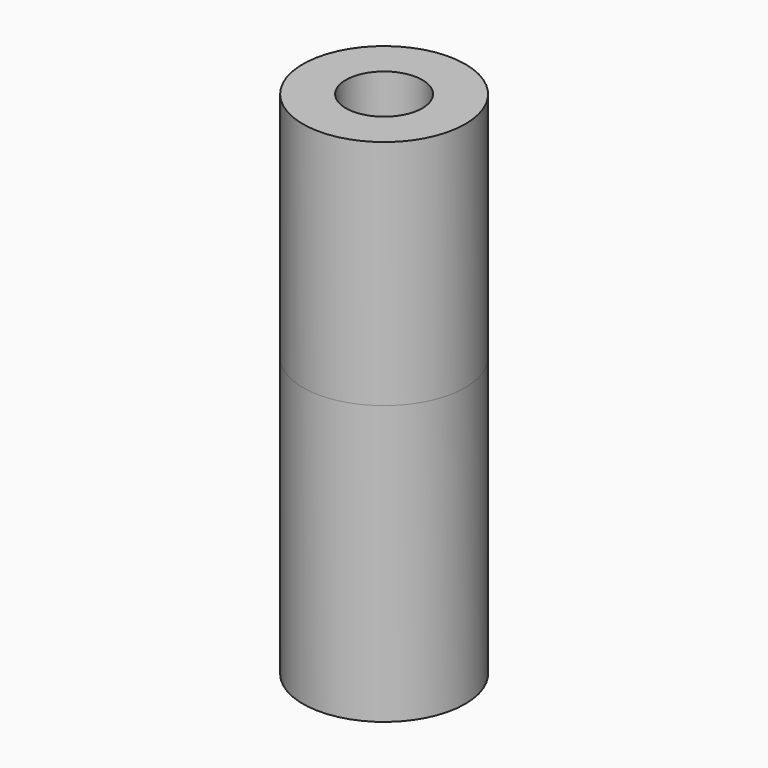
from build123d import *

# Parameters (mm, degrees)
F0_R     = 3.5
F0_R_2   = 1.65
F1_DEPTH = 22
F2_DEPTH = 12


with BuildPart() as f1:
    # F0 (on Top) → F1 (new body)
    with BuildSketch(Plane.XY):
        Circle(F0_R)
        Circle(F0_R_2, mode=Mode.SUBTRACT)
    extrude(amount=F1_DEPTH)


with BuildPart() as f2:
    # F0 (on Top) → F2 (new body)
    with BuildSketch(Plane.XY):
        Circle(F0_R)
        Circle(F0_R_2, mode=Mode.SUBTRACT)
    extrude(amount=F2_DEPTH)


solid = Compound([f1.part, f2.part])
